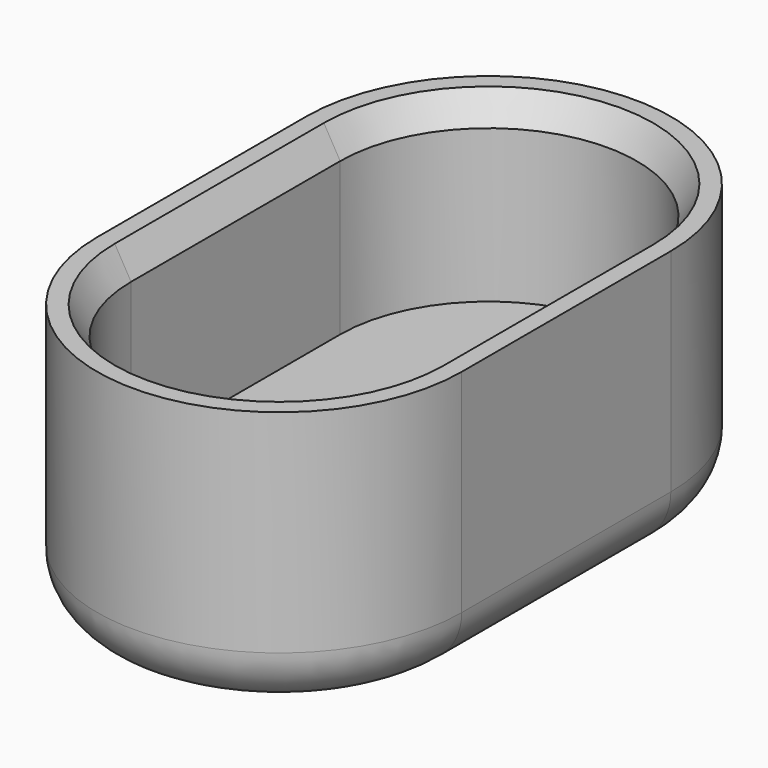
from build123d import *

# Parameters (mm, degrees)
F1_DEPTH = 5
F2_DEPTH = 14
F3_SIZE2 = 2
F3_SIZE  = 1.1547005384
F4_R     = 4
F6_DEPTH = 1.2


with BuildPart() as f1:
    # F0 (on Top) → F1 (new body)
    with BuildSketch(Plane.XY):
        with BuildLine():
            ThreePointArc((12.9, 9.5), (0, 22.4), (-12.9, 9.5))
            Line((-12.9, 9.5), (-12.9, -9))
            ThreePointArc((-12.9, -9), (0, -21.9), (12.9, -9))
            Line((12.9, -9), (12.9, 9.5))
        make_face()
        with BuildLine():
            Line((-10.5, -9), (-10.5, 9.5))
            ThreePointArc((-10.5, 9.5), (0, 20), (10.5, 9.5))
            Line((10.5, 9.5), (10.5, -9))
            ThreePointArc((10.5, -9), (0, -19.5), (-10.5, -9))
        make_face(mode=Mode.SUBTRACT)
        with BuildLine():
            ThreePointArc((10.5, 9.5), (0, 20), (-10.5, 9.5))
            Line((-10.5, 9.5), (-10.5, -9))
            ThreePointArc((-10.5, -9), (0, -19.5), (10.5, -9))
            Line((10.5, -9), (10.5, 9.5))
        make_face()
    extrude(amount=-F1_DEPTH)

    # F0 (on Top) → F2 (join)
    with BuildSketch(Plane.XY):
        with BuildLine():
            ThreePointArc((12.9, 9.5), (0, 22.4), (-12.9, 9.5))
            Line((-12.9, 9.5), (-12.9, -9))
            ThreePointArc((-12.9, -9), (0, -21.9), (12.9, -9))
            Line((12.9, -9), (12.9, 9.5))
        make_face()
        with BuildLine():
            Line((-10.5, -9), (-10.5, 9.5))
            ThreePointArc((-10.5, 9.5), (0, 20), (10.5, 9.5))
            Line((10.5, 9.5), (10.5, -9))
            ThreePointArc((10.5, -9), (0, -19.5), (-10.5, -9))
        make_face(mode=Mode.SUBTRACT)
    extrude(amount=F2_DEPTH)

    # F3
    f3_edges = [f1.edges().sort_by_distance(p)[0] for p in [
        (-10.5, 0.25, 14),
        (0, 20, 14),
        (10.5, 0.25, 14),
        (0, -19.5, 14),
    ]]
    f3_side = f1.faces().sort_by_distance((0, 21.887347, 14))[0]
    chamfer(f3_edges, length=F3_SIZE, length2=F3_SIZE2, reference=f3_side)

    # F4
    f4_edges = [f1.edges().sort_by_distance(p)[0] for p in [
        (0, 22.4, -5),
        (-12.9, 0.25, -5),
        (0, -21.9, -5),
        (12.9, 0.25, -5),
    ]]
    fillet(f4_edges, radius=F4_R)


with BuildPart() as f6:
    # F5 (on face) → F6 (new body)
    with BuildSketch(Plane.XY):
        with BuildLine():
            Line((10.5, -9), (10.5, 9.5))
            ThreePointArc((10.5, 9.5), (0, 20), (-10.5, 9.5))
            Line((-10.5, 9.5), (-10.5, -9))
            ThreePointArc((-10.5, -9), (0, -19.5), (10.5, -9))
        make_face()
    extrude(amount=F6_DEPTH)


solid = Compound([f1.part, f6.part])
